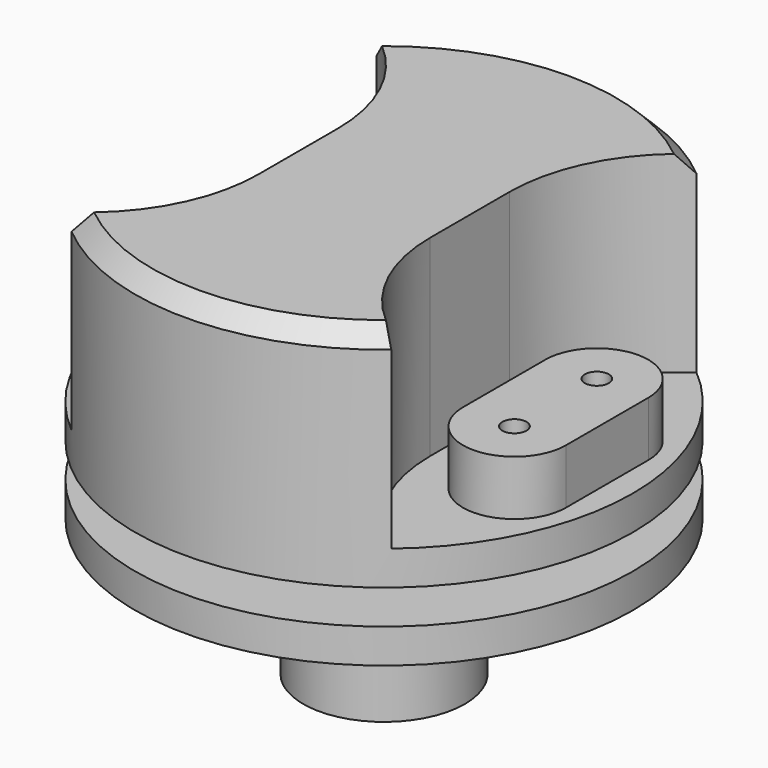
from build123d import *

# Parameters (mm, degrees)
F2_R     = 2.2225
F3_DEPTH = 25.4
F4_DEPTH = 35.56
F5_DEPTH = 38.1
F6_SIZE  = 3.175
F7_R     = 1.4986
F8_DEPTH = 8.001


with BuildPart() as f1:
    # F0 (on Front) → F1 (revolve)
    with BuildSketch(Plane.XZ):
        Polygon((0, 0), (14.9606, 0), (14.9606, 18.9992), (28.575, 18.9992), (28.575, 25.3492), (46.0375, 25.3492), (46.0375, 31.6992), (28.575, 31.6992), (28.575, 38.0492), (46.0375, 38.0492), (46.0375, 44.3992), (46.0375, 50.7492), (46.0375, 79.9592), (0, 79.9592), align=None)
    revolve(axis=Axis((0, 0, 39.9796), (0, 0, -1)))

    # F2 (on face) → F3 (cut)
    with BuildSketch(Plane.XY.offset(79.9592)):
        with BuildLine():
            Line((41.275, -9.525), (41.275, 9.525))
            ThreePointArc((41.275, 9.525), (31.75, 19.05), (22.225, 9.525))
            Line((22.225, 9.525), (22.225, -9.525))
            ThreePointArc((22.225, -9.525), (31.75, -19.05), (41.275, -9.525))
        make_face()
        with Locations((31.75, -9.525)):
            Circle(F2_R, mode=Mode.SUBTRACT)
        with Locations((31.75, 9.525)):
            Circle(F2_R, mode=Mode.SUBTRACT)
        with BuildLine():
            Line((-41.275, 9.525), (-41.275, -9.525))
            ThreePointArc((-41.275, -9.525), (-31.75, -19.05), (-22.225, -9.525))
            Line((-22.225, -9.525), (-22.225, 9.525))
            ThreePointArc((-22.225, 9.525), (-31.75, 19.05), (-41.275, 9.525))
        make_face()
        with Locations((-31.75, -9.525)):
            Circle(F2_R, mode=Mode.SUBTRACT)
        with Locations((-31.75, 9.525)):
            Circle(F2_R, mode=Mode.SUBTRACT)
    extrude(amount=-F3_DEPTH, mode=Mode.SUBTRACT)

    # F2 (on face) → F4 (cut)
    with BuildSketch(Plane.XY.offset(79.9592)):
        with BuildLine():
            Line((15.875, 9.1654355234), (15.875, -9.1654355234))
            ThreePointArc((15.875, -9.1654355234), (19.507052962, -23.9114029169), (29.5722317713, -35.2836295513))
            ThreePointArc((29.5722317713, -35.2836295513), (41.7185991281, -19.4681764179), (46.0375, 0))
            ThreePointArc((46.0375, 0), (41.7185991281, 19.4681764179), (29.5722317713, 35.2836295513))
            ThreePointArc((29.5722317713, 35.2836295513), (19.507052962, 23.9114029169), (15.875, 9.1654355234))
        make_face()
        with BuildLine():
            ThreePointArc((22.225, 9.525), (31.75, 19.05), (41.275, 9.525))
            Line((41.275, 9.525), (41.275, -9.525))
            ThreePointArc((41.275, -9.525), (31.75, -19.05), (22.225, -9.525))
            Line((22.225, -9.525), (22.225, 9.525))
        make_face(mode=Mode.SUBTRACT)
        with BuildLine():
            ThreePointArc((-15.875, 9.1654355234), (-19.507052962, 23.9114029169), (-29.5722317713, 35.2836295513))
            ThreePointArc((-29.5722317713, 35.2836295513), (-46.0375, 0), (-29.5722317713, -35.2836295513))
            ThreePointArc((-29.5722317713, -35.2836295513), (-19.507052962, -23.9114029169), (-15.875, -9.1654355234))
            Line((-15.875, -9.1654355234), (-15.875, 9.1654355234))
        make_face()
        with BuildLine():
            ThreePointArc((-22.225, -9.525), (-31.75, -19.05), (-41.275, -9.525))
            Line((-41.275, -9.525), (-41.275, 9.525))
            ThreePointArc((-41.275, 9.525), (-31.75, 19.05), (-22.225, 9.525))
            Line((-22.225, 9.525), (-22.225, -9.525))
        make_face(mode=Mode.SUBTRACT)
    extrude(amount=-F4_DEPTH, mode=Mode.SUBTRACT)

    # F2 (on face) → F5 (cut)
    with BuildSketch(Plane.XY.offset(79.9592)):
        with Locations((-31.75, 9.525)):
            Circle(F2_R)
        with Locations((-31.75, -9.525)):
            Circle(F2_R)
        with Locations((31.75, 9.525)):
            Circle(F2_R)
        with Locations((31.75, -9.525)):
            Circle(F2_R)
    extrude(amount=-F5_DEPTH, mode=Mode.SUBTRACT)

    # F6
    f6_edges = [f1.edges().sort_by_distance(p)[0] for p in [
        (0, -46.0375, 79.9592),
        (0, 46.0375, 79.9592),
    ]]
    chamfer(f6_edges, length=F6_SIZE)

    # F7 (on face) → F8 (cut)
    with BuildSketch(Plane(origin=(0, 0, 0), x_dir=(1, 0, 0), z_dir=(0, 0, -1))):
        with BuildLine():
            Line((4.0005, -4.0005), (4.0005, 4.0005))
            ThreePointArc((4.0005, 4.0005), (0, 8.001), (-4.0005, 4.0005))
            Line((-4.0005, 4.0005), (-4.0005, -4.0005))
            ThreePointArc((-4.0005, -4.0005), (0, -8.001), (4.0005, -4.0005))
        make_face()
        with Locations((-7.493, 0)):
            Circle(F7_R)
        with Locations((7.493, 0)):
            Circle(F7_R)
    extrude(amount=-F8_DEPTH, mode=Mode.SUBTRACT)


solid = f1.part
